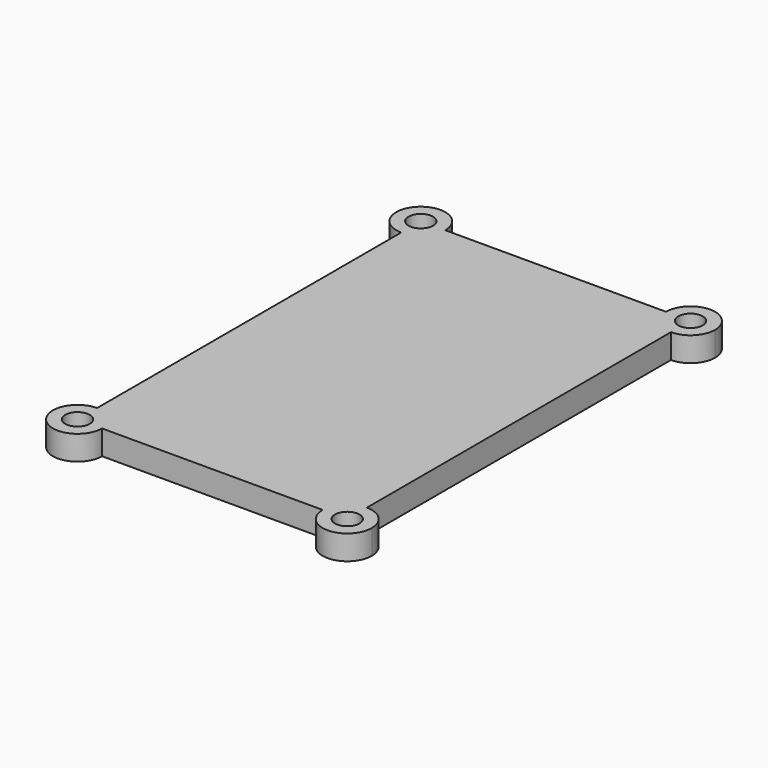
from build123d import *

# Parameters (mm, degrees)
F1_DEPTH = 4
F2_W     = 38
F2_H     = 63
F3_DEPTH = 1.5
F4_R     = 2
F5_DEPTH = 4


with BuildPart() as f1:
    # F0 (on Top) → F1 (new body)
    with BuildSketch(Plane.XY):
        with BuildLine():
            ThreePointArc((-22, 31), (-19.1715728753, 32.1715728753), (-18, 35))
            Line((-18, 35), (-22, 35))
            Line((-22, 35), (-22, 31))
        make_face()
        with BuildLine():
            Line((-22, 35), (-18, 35))
            ThreePointArc((-18, 35), (-24.8284271247, 37.8284271247), (-22, 31))
            Line((-22, 31), (-22, 35))
        make_face()
        with BuildLine():
            Line((18, 35), (-18, 35))
            ThreePointArc((-18, 35), (-19.1715728753, 32.1715728753), (-22, 31))
            Line((-22, 31), (-22, -31))
            ThreePointArc((-22, -31), (-19.1715728753, -32.1715728753), (-18, -35))
            Line((-18, -35), (18, -35))
            ThreePointArc((18, -35), (19.1715728753, -32.1715728753), (22, -31))
            Line((22, -31), (22, 31))
            ThreePointArc((22, 31), (19.1715728753, 32.1715728753), (18, 35))
        make_face()
        with BuildLine():
            ThreePointArc((26, 35), (22, 39), (18, 35))
            Line((18, 35), (22, 35))
            Line((22, 35), (22, 31))
            ThreePointArc((22, 31), (24.8284271247, 32.1715728753), (26, 35))
        make_face()
        with BuildLine():
            Line((22, 35), (18, 35))
            ThreePointArc((18, 35), (19.1715728753, 32.1715728753), (22, 31))
            Line((22, 31), (22, 35))
        make_face()
        with BuildLine():
            ThreePointArc((-18, -35), (-19.1715728753, -32.1715728753), (-22, -31))
            Line((-22, -31), (-22, -35))
            Line((-22, -35), (-18, -35))
        make_face()
        with BuildLine():
            Line((-22, -35), (-22, -31))
            ThreePointArc((-22, -31), (-24.8284271247, -37.8284271247), (-18, -35))
            Line((-18, -35), (-22, -35))
        make_face()
        with BuildLine():
            ThreePointArc((26, -35), (24.8284271247, -32.1715728753), (22, -31))
            Line((22, -31), (22, -35))
            Line((22, -35), (18, -35))
            ThreePointArc((18, -35), (22, -39), (26, -35))
        make_face()
        with BuildLine():
            Line((22, -35), (22, -31))
            ThreePointArc((22, -31), (19.1715728753, -32.1715728753), (18, -35))
            Line((18, -35), (22, -35))
        make_face()
    extrude(amount=F1_DEPTH)

    # F2 (on face) → F3 (cut)
    with BuildSketch(Plane(origin=(0, 0, 0), x_dir=(1, 0, 0), z_dir=(0, 0, -1))):
        Rectangle(F2_W, F2_H)
    extrude(amount=-F3_DEPTH, mode=Mode.SUBTRACT)

    # F4 (on face) → F5 (cut, through all)
    with BuildSketch(Plane(origin=(0, 0, 0), x_dir=(1, 0, 0), z_dir=(0, 0, -1))):
        with Locations((-22, 35)):
            Circle(F4_R)
        with Locations((22, 35)):
            Circle(F4_R)
        with Locations((-22, -35)):
            Circle(F4_R)
        with Locations((22, -35)):
            Circle(F4_R)
    extrude(amount=-F5_DEPTH, mode=Mode.SUBTRACT)


solid = f1.part
